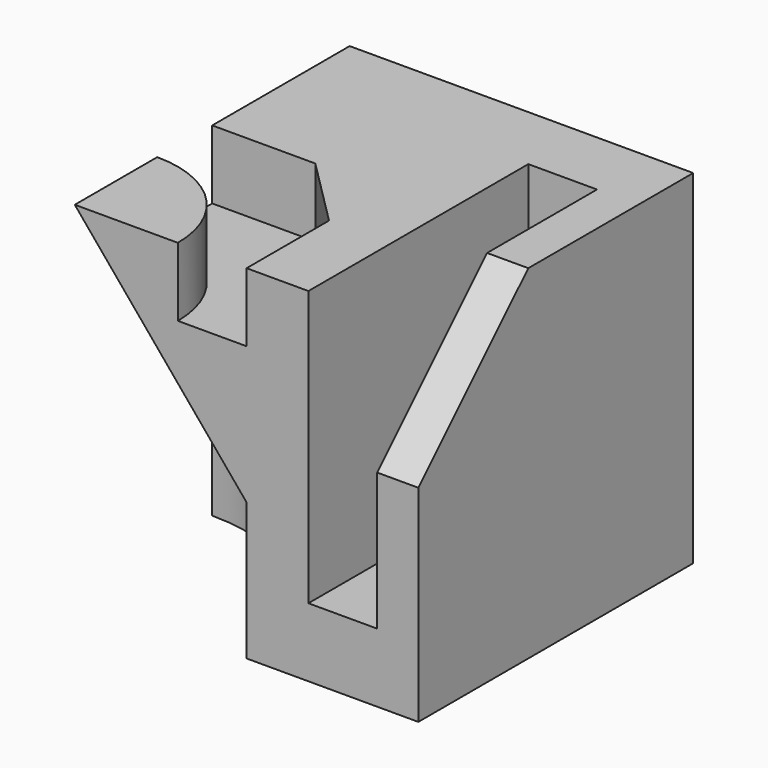
from build123d import *

# Parameters (mm, degrees)
F0_W      = 50
F0_H      = 50
F1_DEPTH  = 50
F2_W      = 10
F2_H      = 40
F3_DEPTH  = 40
F6_R      = 10
F7_DEPTH  = 6
F9_DEPTH  = 20
F14_DEPTH = 10
F15_SIZE  = 10


with BuildPart() as f1:
    # F0 (on Top) → F1 (new body)
    with BuildSketch(Plane.XY):
        with Locations((25, 25)):
            Rectangle(F0_W, F0_H)
    extrude(amount=F1_DEPTH)

    # F2 (on face) → F3 (cut)
    with BuildSketch(Plane.XY.offset(50)):
        with Locations((39, 20)):
            Rectangle(F2_W, F2_H)
    extrude(amount=-F3_DEPTH, mode=Mode.SUBTRACT)

    # F6
    f6_edges = [f1.edges().sort_by_distance(p)[0] for p in [
        (39, 40, 10),
    ]]
    fillet(f6_edges, radius=F6_R)

    # F5 (on face) → F7 (cut)
    with BuildSketch(Plane.YZ.offset(50)):
        Polygon((0, 50), (0, 30), (20, 50), align=None)
    extrude(amount=-F7_DEPTH, mode=Mode.SUBTRACT)

    # F8 (on face) → F9 (cut)
    with BuildSketch(Plane(origin=(0, 0, 0), x_dir=(1, 0, 0), z_dir=(0, 0, -1))):
        with BuildLine():
            ThreePointArc((0, -25), (17.6776695297, -17.6776695297), (25, 0))
            Line((25, 0), (0, 0))
            Line((0, 0), (0, -25))
        make_face()
    extrude(amount=-F9_DEPTH, mode=Mode.SUBTRACT)

    # F9_face (on face) → F11 section 0
    with BuildSketch(Plane(origin=(10.6103295395, 10.6103295395, 20), x_dir=(1, 0, 0), z_dir=(0, 0, -1)), mode=Mode.PRIVATE) as f11_s0:
        with BuildLine():
            ThreePointArc((-10.6103295395, -14.3896704605), (7.0673399902, -7.0673399902), (14.3896704605, 10.6103295395))
            Line((14.3896704605, 10.6103295395), (-10.6103295395, 10.6103295395))
            Line((-10.6103295395, 10.6103295395), (-10.6103295395, -14.3896704605))
        make_face()
    loft([f11_s0.sketch, Vertex(0, 0, 50.0027686357)], mode=Mode.SUBTRACT)

    # F13 (on face) → F14 (cut)
    with BuildSketch(Plane.XY.offset(50)):
        with BuildLine():
            ThreePointArc((0, 15), (10.6066017178, 10.6066017178), (15, 0))
            Line((15, 0), (25, 0))
            Line((25, 0), (25, 25))
            Line((25, 25), (0, 25))
            Line((0, 25), (0, 15))
        make_face()
    extrude(amount=-F14_DEPTH, mode=Mode.SUBTRACT)

    # F15
    f15_edges = [f1.edges().sort_by_distance(p)[0] for p in [
        (25, 25, 45),
    ]]
    chamfer(f15_edges, length=F15_SIZE)


solid = f1.part
